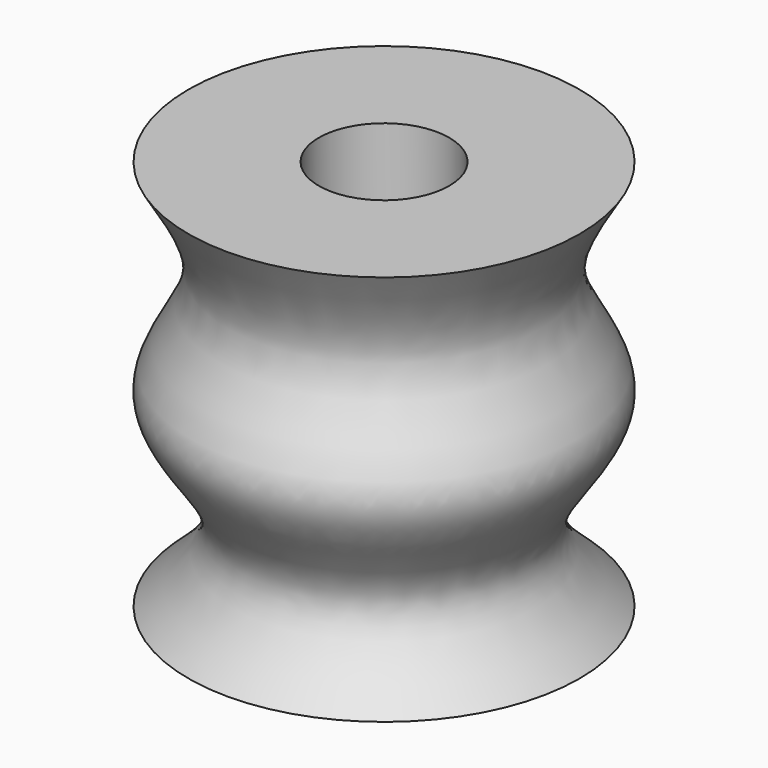
from build123d import *

# Parameters (mm, degrees)
F2_R     = 12.7
F3_DEPTH = 38.1


with BuildPart() as f1:
    # F0 (on Front) → F1 (revolve)
    with BuildSketch(Plane.XZ):
        with BuildLine():
            Line((-38.1, 0), (0, 0))
            Line((0, 0), (0, 76.2))
            Line((0, 76.2), (-38.1, 76.2))
            add(Edge.make_bspline(
                [(-38.1, 76.2), (-33.7358442931, 69.0850462116), (-25.1891317358, 55.1512021943), (-45.7013673601, 36.1214934758), (-20.7782663665, 15.7508696624), (-32.4990456215, 5.0930180701), (-38.1, 0)],
                knots=[0, 0, 0, 0, 0.2568604982, 0.503032658, 0.762516523, 1, 1, 1, 1], degree=3))
        make_face()
    revolve(axis=Axis((0, 0, 38.1), (0, 0, -1)))

    # F2 (on face) → F3 (cut)
    with BuildSketch(Plane.XY.offset(76.2)):
        Circle(F2_R)
    extrude(amount=-F3_DEPTH, mode=Mode.SUBTRACT)


solid = f1.part
